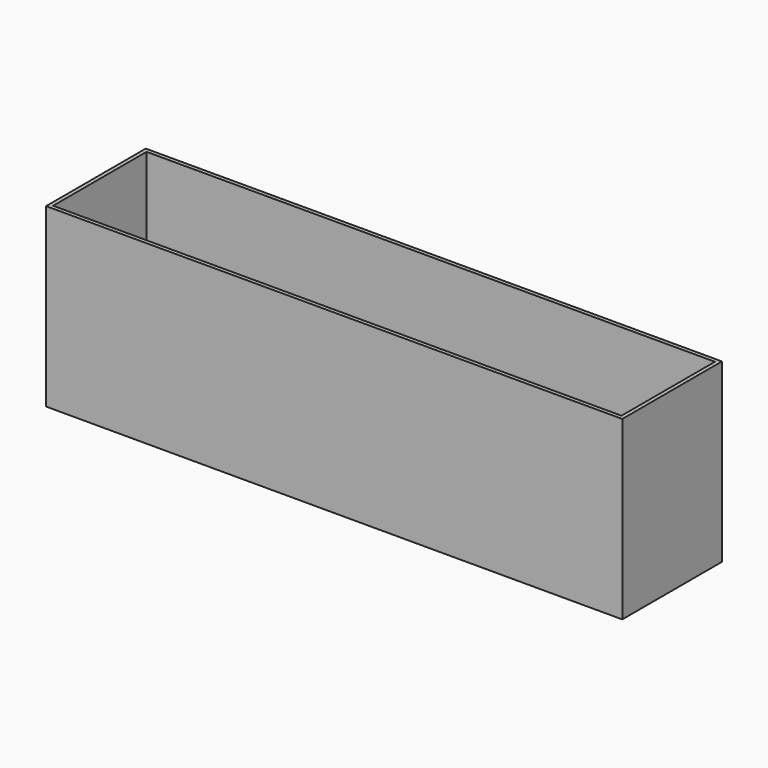
from build123d import *

# Parameters (mm, degrees)
F1_W     = 2819.4
F1_H     = 609.6
F1_W_2   = 2781.3
F1_H_2   = 571.5
F2_DEPTH = 863.6


with BuildPart() as f2:
    # F1 (on face) → F2 (new body)
    with BuildSketch(Plane.XY):
        Rectangle(F1_W, F1_H)
        Rectangle(F1_W_2, F1_H_2, mode=Mode.SUBTRACT)
    extrude(amount=F2_DEPTH)


solid = f2.part
